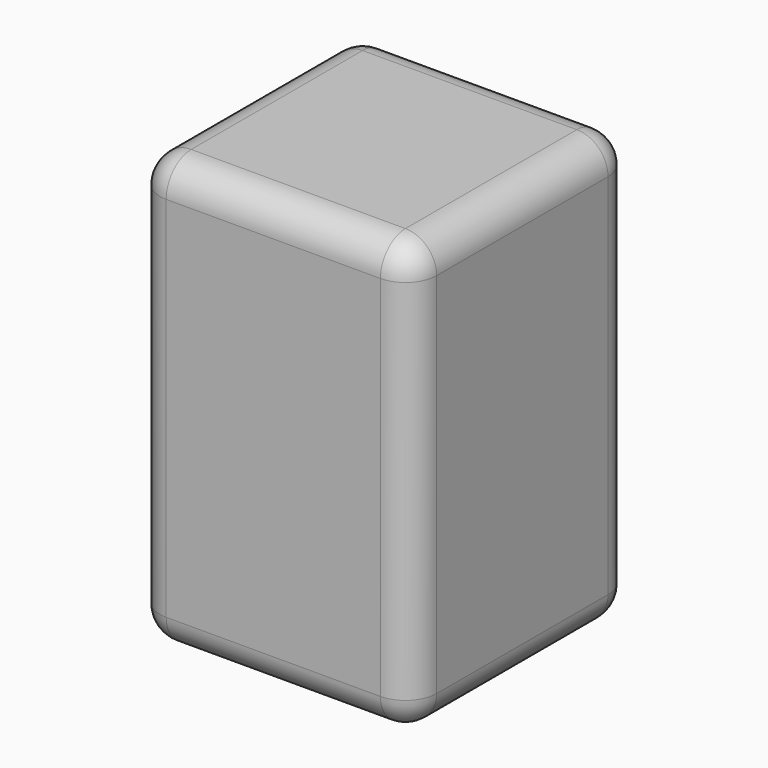
from build123d import *

# Parameters (mm, degrees)
F0_W     = 45
F0_H     = 45
F1_DEPTH = 70
F2_R     = 5.08
F3_W     = 25
F3_H     = 25
F4_DEPTH = 38
F5_R     = 5.08


with BuildPart() as f1:
    # F0 (on Top) → F1 (new body)
    with BuildSketch(Plane.XY):
        Rectangle(F0_W, F0_H)
    extrude(amount=F1_DEPTH)

    # F2
    f2_edges = [f1.edges().sort_by_distance(p)[0] for p in [
        (0, -22.5, 70),
        (-22.5, 0, 70),
        (0, 22.5, 70),
        (22.5, 0, 70),
        (22.5, -22.5, 35),
        (22.5, 22.5, 35),
        (-22.5, -22.5, 35),
        (0, -22.5, 0),
        (22.5, 0, 0),
        (-22.5, 0, 0),
        (-22.5, 22.5, 35),
        (0, 22.5, 0),
    ]]
    fillet(f2_edges, radius=F2_R)


with BuildPart() as f4:
    # F3 (on Top) → F4 (new body)
    with BuildSketch(Plane.XY):
        Rectangle(F3_W, F3_H)
    extrude(amount=F4_DEPTH)

    # F5
    f5_edges = [f4.edges().sort_by_distance(p)[0] for p in [
        (12.5, -12.5, 19),
        (12.5, 12.5, 19),
        (12.5, 0, 0),
        (12.5, 0, 38),
        (0, 12.5, 0),
        (0, 12.5, 38),
        (-12.5, 0, 38),
        (0, -12.5, 38),
        (-12.5, 0, 0),
        (0, -12.5, 0),
        (-12.5, 12.5, 19),
        (-12.5, -12.5, 19),
    ]]
    fillet(f5_edges, radius=F5_R)


solid = Compound([f1.part, f4.part])
